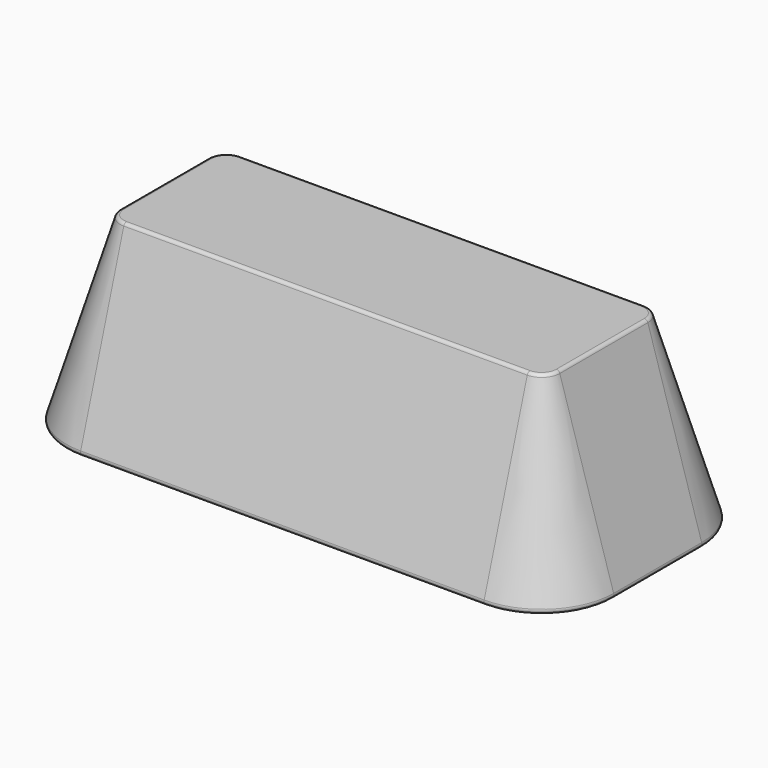
from build123d import *

# Parameters (mm, degrees)
F1_DEPTH = 50
F1_TAPER = 17
F2_R     = 1
F3_R     = 25
F4_DEPTH = 2


with BuildPart() as f1:
    # F0 (on Top) → F1 (new body)
    with BuildSketch(Plane.XY):
        with BuildLine():
            Line((52.6273290813, 55.3626765174), (-57.3726709187, 55.3626765174))
            ThreePointArc((-57.3726709187, 55.3626765174), (-71.5148065424, 49.5048121412), (-77.3726709187, 35.3626765174))
            Line((-77.3726709187, 35.3626765174), (-77.3726709187, 5.3626765174))
            ThreePointArc((-77.3726709187, 5.3626765174), (-71.5148065424, -8.7794591063), (-57.3726709187, -14.6373234826))
            Line((-57.3726709187, -14.6373234826), (52.6273290813, -14.6373234826))
            ThreePointArc((52.6273290813, -14.6373234826), (66.769464705, -8.7794591063), (72.6273290813, 5.3626765174))
            Line((72.6273290813, 5.3626765174), (72.6273290813, 35.3626765174))
            ThreePointArc((72.6273290813, 35.3626765174), (66.769464705, 49.5048121412), (52.6273290813, 55.3626765174))
        make_face()
    extrude(amount=F1_DEPTH, taper=F1_TAPER)

    # F2
    f2_edges = [f1.edges().sort_by_distance(p)[0] for p in [
        (72.627329, 20.362677, 0),
        (66.769465, 49.504812, 0),
        (-2.372671, 55.362677, 0),
        (-71.514807, 49.504812, 0),
        (-77.372671, 20.362677, 0),
        (-71.514807, -8.779459, 0),
        (-2.372671, -14.637323, 0),
        (66.769465, -8.779459, 0),
        (57.340795, 20.362677, 50),
        (55.960253, 38.6956, 50),
        (-2.372671, 40.076142, 50),
        (-60.705595, 38.6956, 50),
        (-62.086137, 20.362677, 50),
        (-60.705595, 2.029753, 50),
        (-2.372671, 0.649211, 50),
        (55.960253, 2.029753, 50),
    ]]
    fillet(f2_edges, radius=F2_R)

    # F3 (on face) → F4 (cut)
    with BuildSketch(Plane(origin=(0, 0, 0), x_dir=(1, 0, 0), z_dir=(0, 0, -1))):
        with Locations((35.1273290813, -20.0112540795)):
            Circle(F3_R)
        with Locations((-39.8726709187, -20.0112540795)):
            Circle(F3_R)
    extrude(amount=-F4_DEPTH, mode=Mode.SUBTRACT)


solid = f1.part
